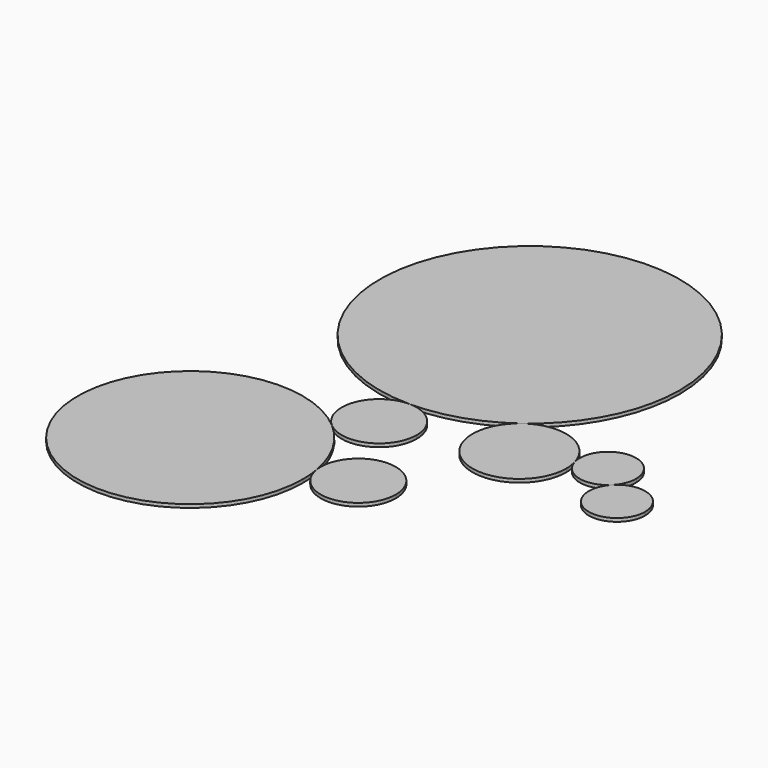
from build123d import *

# Parameters (mm, degrees)
F1_DEPTH = 25


with BuildPart() as f1:
    # F0 (on Top) → F1 (new body)
    with BuildSketch(Plane.XY):
        with BuildLine():
            ThreePointArc((-150.609154, 356.345081), (-78.968594, 15.413358), (210, 210))
            ThreePointArc((210, 210), (78.968594, 404.586642), (-150.609154, 356.345081))
        make_face()
        with BuildLine():
            ThreePointArc((-1060.2, -527.3), (-1363.661747, -248.284684), (-1616.268189, -574.058476))
            ThreePointArc((-1616.268189, -574.058476), (-1316.738253, -806.315316), (-1060.2, -527.3))
        make_face()
        with BuildLine():
            ThreePointArc((-1616.268189, -574.058476), (-1712.987932, -301.381162), (-1896.486103, -77.693775))
            ThreePointArc((-1896.486103, -77.693775), (-3207.987262, -1064.541826), (-1604.472759, -714.333881))
            ThreePointArc((-1604.472759, -714.333881), (-1607.426811, -643.948653), (-1616.268189, -574.058476))
        make_face()
        with BuildLine():
            ThreePointArc((-1433.823894, 134.519602), (-1515.60122, 332.276452), (-1713.16512, 414.518827))
            ThreePointArc((-1713.16512, 414.518827), (-1976.216013, 232.245628), (-1896.486103, -77.693775))
            ThreePointArc((-1896.486103, -77.693775), (-1597.087907, -119.98523), (-1433.823894, 134.519602))
        make_face()
        with BuildLine():
            ThreePointArc((-1713.16512, 414.518827), (-1362.774148, 469.872189), (-1047.269052, 632.027552))
            ThreePointArc((-1047.269052, 632.027552), (-711.217175, 1028.77482), (-590.530006, 1534.515727))
            ThreePointArc((-590.530006, 1534.515727), (-2501.557399, 2327.406428), (-1713.16512, 414.518827))
        make_face()
        with BuildLine():
            ThreePointArc((-490, 350), (-493.331213, 398.174184), (-503.26144, 445.431349))
            ThreePointArc((-503.26144, 445.431349), (-726.4433, 681.066271), (-1047.269052, 632.027552))
            ThreePointArc((-1047.269052, 632.027552), (-998.044032, 37.714739), (-490, 350))
        make_face()
        with BuildLine():
            ThreePointArc((-503.26144, 445.431349), (-352.652287, 299.08627), (-150.609154, 356.345081))
            ThreePointArc((-150.609154, 356.345081), (-106.631665, 423.721569), (-91.218306, 502.690164))
            ThreePointArc((-91.218306, 502.690164), (-330.12282, 710.691436), (-503.26144, 445.431349))
        make_face()
    extrude(amount=F1_DEPTH)


solid = f1.part
